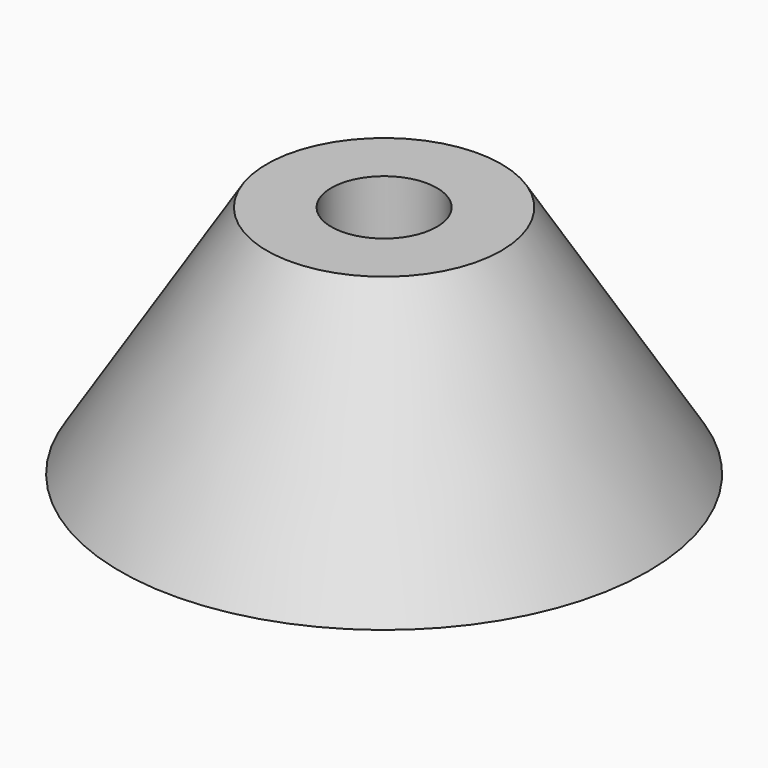
from build123d import *

# Parameters (mm, degrees)
F0_R     = 22.5
F2_R     = 10
F4_R     = 4.5
F5_DEPTH = 20.001


with BuildPart() as f3:
    # F0 (on Top) → F3 section 0
    with BuildSketch(Plane.XY):
        Circle(F0_R)
    # F2 (on offset) → F3 section 1
    with BuildSketch(Plane.XY.offset(20)):
        Circle(F2_R)
    loft()

    # F4 (on face) → F5 (cut, through all)
    with BuildSketch(Plane.XY.offset(20)):
        Circle(F4_R)
    extrude(amount=-F5_DEPTH, mode=Mode.SUBTRACT)


solid = f3.part
